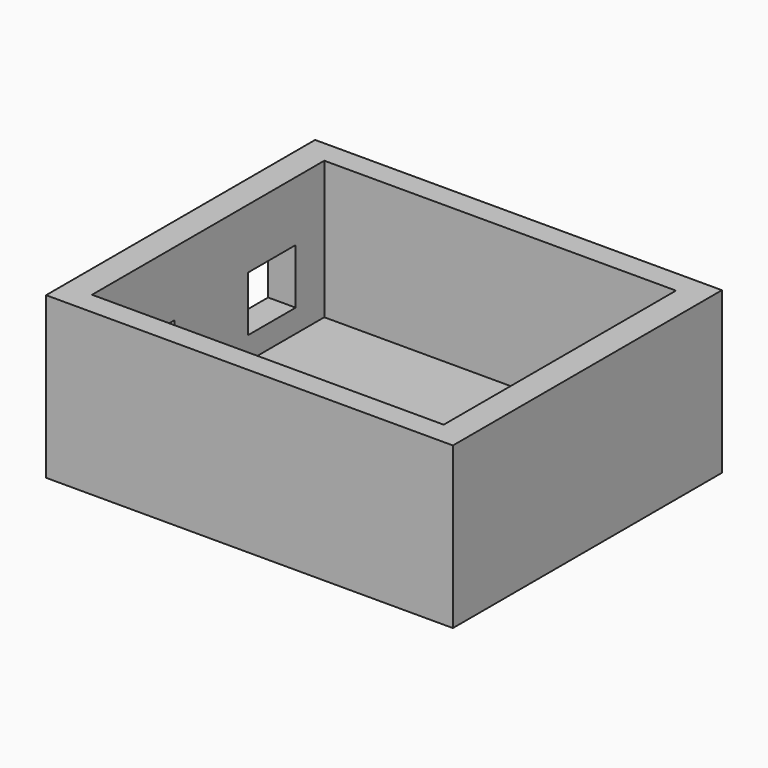
from build123d import *

# Parameters (mm, degrees)
F0_W      = 88.56
F0_H      = 73.2
F1_DEPTH  = 10
F1_FACE_W = 88.56
F1_FACE_H = 73.2
F2_DEPTH  = 25
F3_W      = 76.56
F3_H      = 63.2
F4_DEPTH  = 30
F6_W      = 13
F6_H      = 12
F6_W_2    = 10
F6_H_2    = 11
F7_DEPTH  = 25


with BuildPart() as f1:
    # F0 (on Top) → F1 (new body)
    with BuildSketch(Plane.XY):
        Rectangle(F0_W, F0_H)
    extrude(amount=-F1_DEPTH)

    # F1_face (on face) → F2 (join)
    with BuildSketch(Plane.XY):
        Rectangle(F1_FACE_W, F1_FACE_H)
    extrude(amount=F2_DEPTH)

    # F3 (on face) → F4 (cut)
    with BuildSketch(Plane.XY.offset(25)):
        Rectangle(F3_W, F3_H)
    extrude(amount=-F4_DEPTH, mode=Mode.SUBTRACT)

    # F6 (on face) → F7 (cut)
    with BuildSketch(Plane(origin=(-44.28, 0, 0), x_dir=(0, -1, 0), z_dir=(-1, 0, 0))):
        with Locations((-17.316721, 6)):
            Rectangle(F6_W, F6_H)
        with Locations((14.183279, 5.5)):
            Rectangle(F6_W_2, F6_H_2)
    extrude(amount=-F7_DEPTH, mode=Mode.SUBTRACT)


solid = f1.part
